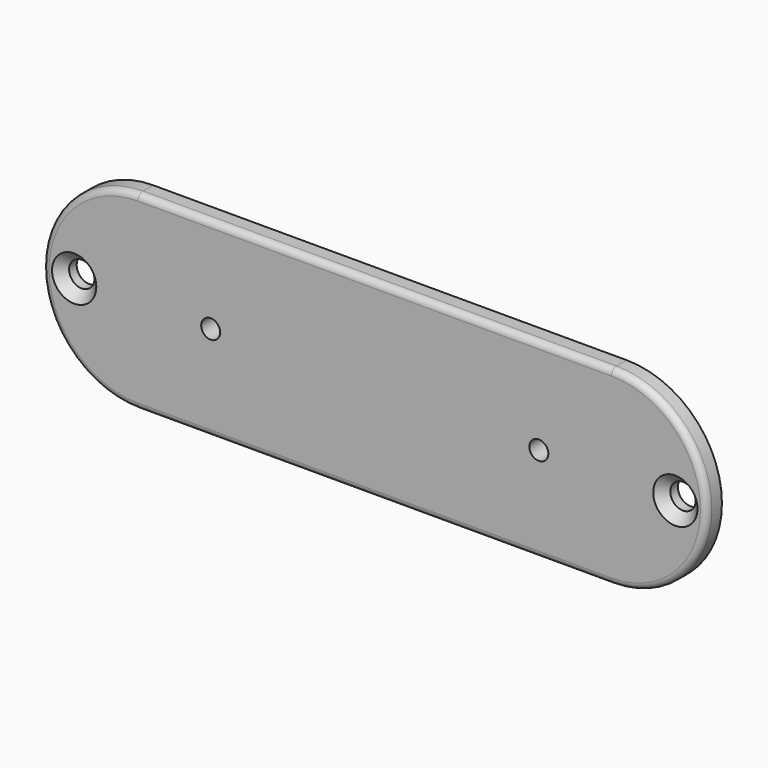
from build123d import *

# Parameters (mm, degrees)
F0_R     = 2
F0_R_2   = 1.5
F1_DEPTH = 3
F2_R     = 1
F3_SIZE  = 1.5
F4_SIZE  = 1.5


with BuildPart() as f1:
    # F0 (on Front) → F1 (new body)
    with BuildSketch(Plane.XZ):
        with BuildLine():
            Line((37.448312, 15.051688), (-37.448312, 15.051688))
            ThreePointArc((-37.448312, 15.051688), (-52.5, 0), (-37.448312, -15.051688))
            Line((-37.448312, -15.051688), (37.448312, -15.051688))
            ThreePointArc((37.448312, -15.051688), (52.5, 0), (37.448312, 15.051688))
        make_face()
        with Locations((-47.538312, 0)):
            Circle(F0_R, mode=Mode.SUBTRACT)
        with Locations((-25.948312, 0)):
            Circle(F0_R_2, mode=Mode.SUBTRACT)
        with Locations((25.948312, 0)):
            Circle(F0_R_2, mode=Mode.SUBTRACT)
        with Locations((47.538312, 0)):
            Circle(F0_R, mode=Mode.SUBTRACT)
    extrude(amount=F1_DEPTH)

    # F2
    f2_edges = [f1.edges().sort_by_distance(p)[0] for p in [
        (0, -3, 15.051688),
        (-52.5, -3, 0),
        (0, -3, -15.051688),
        (52.5, -3, 0),
    ]]
    fillet(f2_edges, radius=F2_R)

    # F3
    f3_edges = [f1.edges().sort_by_distance(p)[0] for p in [
        (-49.538312, -3, 0),
    ]]
    chamfer(f3_edges, length=F3_SIZE)

    # F4
    f4_edges = [f1.edges().sort_by_distance(p)[0] for p in [
        (45.538312, -3, 0),
    ]]
    chamfer(f4_edges, length=F4_SIZE)


solid = f1.part
